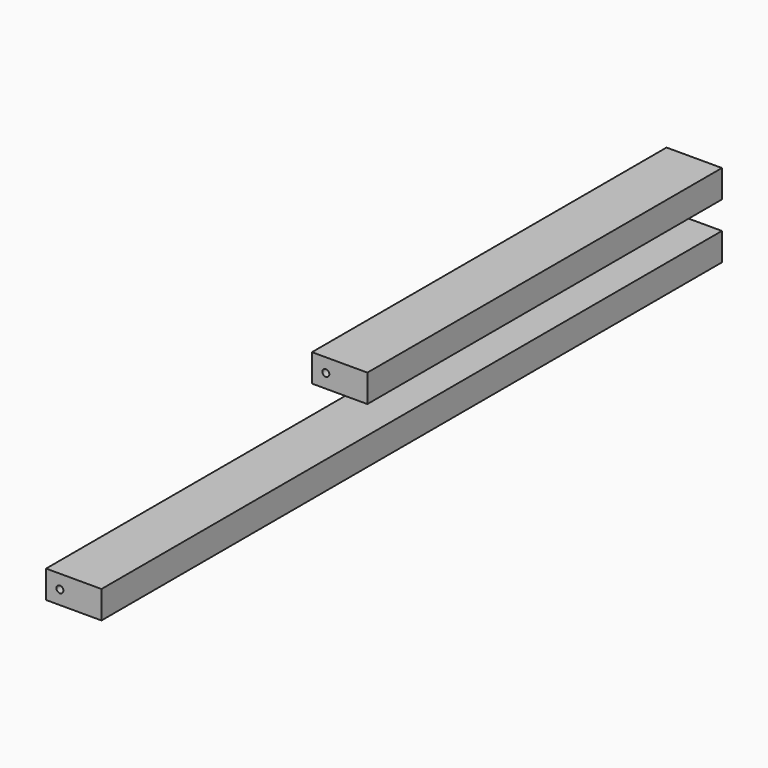
from build123d import *

# Parameters (mm, degrees)
F0_W      = 101.6
F0_H      = 50.8
F1_DEPTH  = 812.8
F2_W      = 101.6
F2_H      = 50.8
F3_DEPTH  = 1422.4
F4_R      = 6.35
F5_DEPTH  = 76.2
F6_R      = 6.35
F7_DEPTH  = 76.2
F8_R      = 6.35
F9_DEPTH  = 76.2
F10_R     = 6.35
F11_DEPTH = 76.2


with BuildPart() as f1:
    # F0 (on Front) → F1 (new body)
    with BuildSketch(Plane.XZ):
        with Locations((0, 25.4)):
            Rectangle(F0_W, F0_H)
    extrude(amount=F1_DEPTH)

    # F4 (on face) → F5 (cut)
    with BuildSketch(Plane.XZ.offset(812.8)):
        with Locations((-25.4, 25.4)):
            Circle(F4_R)
    extrude(amount=-F5_DEPTH, mode=Mode.SUBTRACT)

    # F6 (on face) → F7 (cut)
    with BuildSketch(Plane(origin=(0, 0, 0), x_dir=(-1, 0, 0), z_dir=(0, 1, 0))):
        with Locations((25.4, 25.4)):
            Circle(F6_R)
    extrude(amount=-F7_DEPTH, mode=Mode.SUBTRACT)


with BuildPart() as f3:
    # F2 (on Front) → F3 (new body)
    with BuildSketch(Plane.XZ):
        with Locations((0, -76.2)):
            Rectangle(F2_W, F2_H)
    extrude(amount=F3_DEPTH)

    # F8 (on face) → F9 (cut)
    with BuildSketch(Plane.XZ.offset(1422.4)):
        with Locations((-25.4, -76.2)):
            Circle(F8_R)
    extrude(amount=-F9_DEPTH, mode=Mode.SUBTRACT)

    # F10 (on face) → F11 (cut)
    with BuildSketch(Plane(origin=(0, 0, 0), x_dir=(-1, 0, 0), z_dir=(0, 1, 0))):
        with Locations((25.4, -76.2)):
            Circle(F10_R)
    extrude(amount=-F11_DEPTH, mode=Mode.SUBTRACT)


solid = Compound([f1.part, f3.part])
